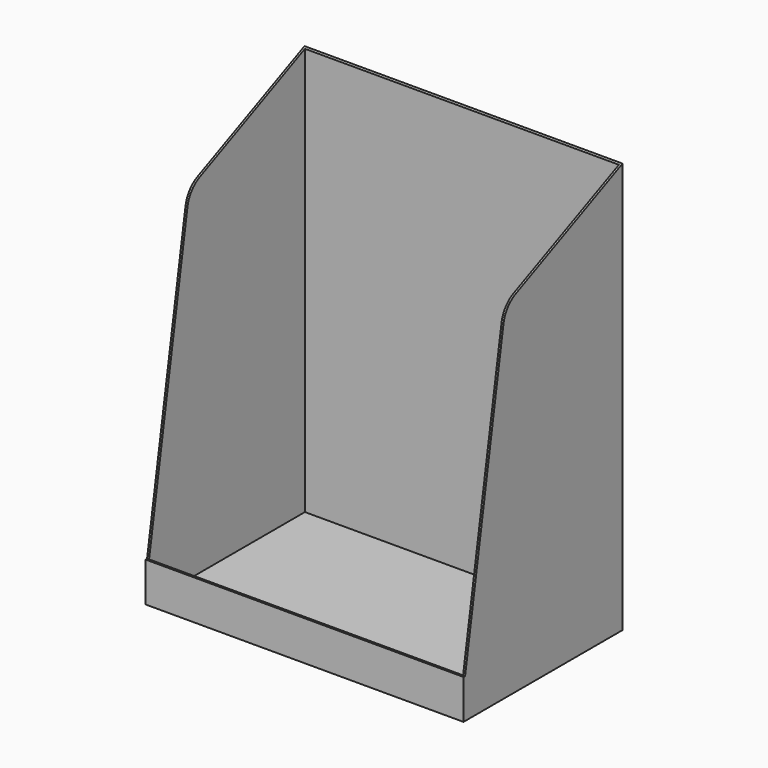
from build123d import *

# Parameters (mm, degrees)
F0_W     = 480
F0_H     = 300
F1_DEPTH = 620
F2_T     = -3
F4_DEPTH = 362


with BuildPart() as f1:
    # F0 (on Top) → F1 (new body)
    with BuildSketch(Plane.XY):
        Rectangle(F0_W, F0_H)
    extrude(amount=F1_DEPTH)

    # F2
    f2_openings = [f1.faces().sort_by_distance(p)[0] for p in [
        (0, 0, 620),
    ]]
    offset(amount=F2_T, openings=f2_openings)

    # F3 (on Right) → F4 (cut, symmetric)
    with BuildSketch(Plane.YZ):
        with BuildLine():
            Line((-208.315447, 59.702795), (-150, 59.702795))
            Line((-150, 59.702795), (-147, 59.702795))
            Line((-147, 59.702795), (-74.486937, 498.891666))
            ThreePointArc((-74.486937, 498.891666), (-66.749185, 516.734135), (-51.511216, 528.818454))
            Line((-51.511216, 528.818454), (150, 620))
            Line((150, 620), (136.103183, 668.386102))
            Line((136.103183, 668.386102), (-228.213415, 668.386102))
            Line((-228.213415, 668.386102), (-208.315447, 59.702795))
        make_face()
    extrude(amount=F4_DEPTH, both=True, mode=Mode.SUBTRACT)


solid = f1.part
